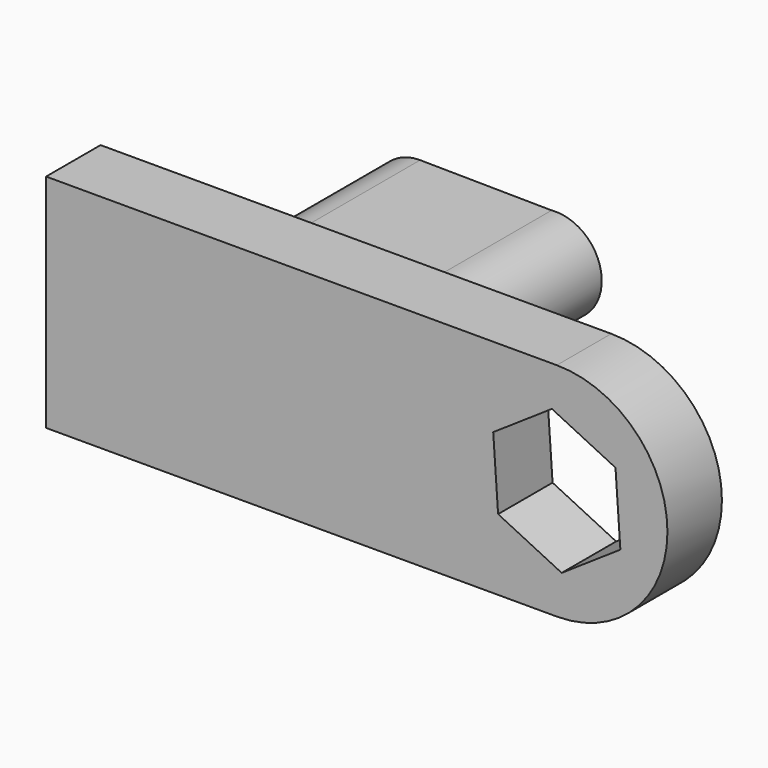
from build123d import *

# Parameters (mm, degrees)
F1_DEPTH = 5.08
F3_DEPTH = 17.526


with BuildPart() as f1:
    # F0 (on Front) → F1 (new body)
    with BuildSketch(Plane.XZ):
        with BuildLine():
            Line((-36.919771, 12.047401), (-75.019771, 12.047401))
            Line((-75.019771, 12.047401), (-75.019771, -4.462599))
            Line((-75.019771, -4.462599), (-36.919771, -4.462599))
            ThreePointArc((-36.919771, -4.462599), (-28.664771, 3.792401), (-36.919771, 12.047401))
        make_face()
        Polygon((-32.540683, 6.741045), (-32.176626, 1.474322), (-36.555714, -1.474322), (-41.298858, 0.843757), (-41.662915, 6.110481), (-37.283827, 9.059125), align=None, mode=Mode.SUBTRACT)
    extrude(amount=F1_DEPTH)

    # F2 (on face) → F3 (join)
    with BuildSketch(Plane(origin=(0, 0, 0), x_dir=(-1, 0, 0), z_dir=(0, 1, 0))):
        with BuildLine():
            ThreePointArc((65.263685, 0.271548), (61.810944, 3.669364), (65.201483, 7.129251))
            Line((65.201483, 7.129251), (55.392917, 7.01963))
            ThreePointArc((55.392917, 7.01963), (57.612757, 5.916273), (58.508803, 3.604956))
            ThreePointArc((58.508803, 3.604956), (57.653648, 1.339262), (55.514714, 0.203648))
            Line((55.514714, 0.203648), (65.263685, 0.271548))
        make_face()
        with BuildLine():
            ThreePointArc((58.508803, 3.604956), (57.612757, 5.916273), (55.392917, 7.01963))
            ThreePointArc((55.392917, 7.01963), (51.65135, 3.543692), (55.514714, 0.203648))
            ThreePointArc((55.514714, 0.203648), (57.653648, 1.339262), (58.508803, 3.604956))
        make_face()
        with BuildLine():
            ThreePointArc((65.263685, 0.271548), (67.672901, 1.284254), (68.668803, 3.700465))
            ThreePointArc((68.668803, 3.700465), (67.650886, 6.138645), (65.201483, 7.129251))
            ThreePointArc((65.201483, 7.129251), (61.810944, 3.669364), (65.263685, 0.271548))
        make_face()
    extrude(amount=F3_DEPTH)


solid = f1.part
